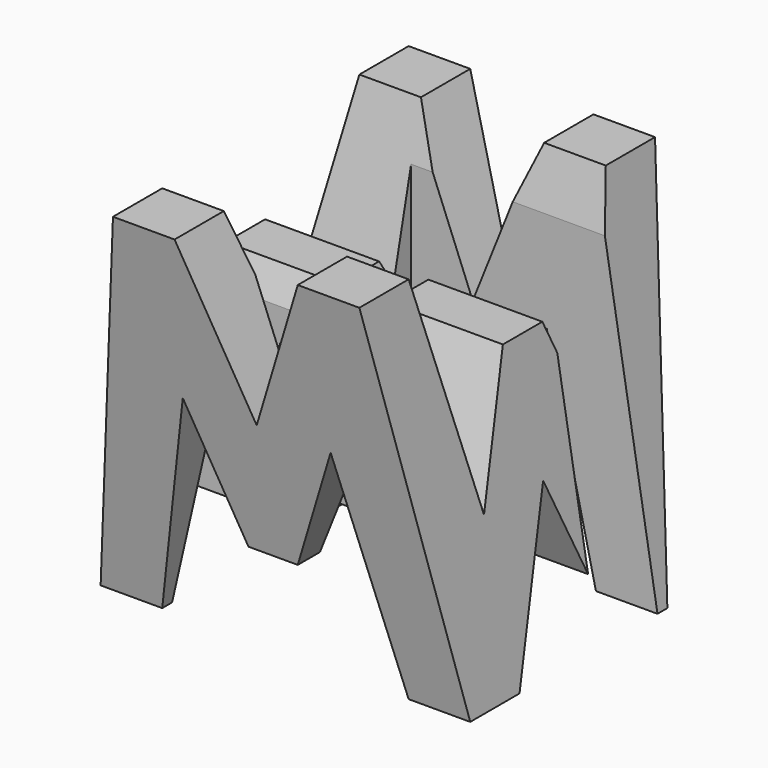
from build123d import *

# Parameters (mm, degrees)
F0_W      = 38.1
F0_H      = 38.1
F1_DEPTH  = 38.1
F6_DEPTH  = 38.1
F8_DEPTH  = 38.1
F9_W      = 25.4
F9_H      = 7.62
F10_DEPTH = 38.1


with BuildPart() as f1:
    # F0 (on Front) → F1 (new body)
    with BuildSketch(Plane.XZ):
        with Locations((19.05, 19.05)):
            Rectangle(F0_W, F0_H)
    extrude(amount=F1_DEPTH)

    # F5 (on offset) → F6 (cut)
    with BuildSketch(Plane.YZ.offset(38.1)):
        Polygon((-31.75, 0), (-38.1, 38.1), (-38.1, 0), align=None)
        Polygon((-25.4, 0), (-12.7, 0), (-19.05, 15.875), align=None)
        Polygon((-6.35, 0), (0, 0), (0, 38.1), align=None)
        Polygon((-11.43, 15.875), (-6.35, 38.1), (-31.75, 38.1), (-26.67, 15.875), (-21.59, 28.575), (-16.51, 28.575), align=None)
    extrude(amount=-F6_DEPTH, mode=Mode.SUBTRACT)

    # F7 (on offset) → F8 (cut)
    with BuildSketch(Plane.XZ.offset(38.1)):
        Polygon((0, 38.1), (0, 0), (6.35, 38.1), align=None)
        Polygon((11.43, 22.225), (6.35, 0), (31.75, 0), (26.67, 22.225), (21.59, 9.525), (16.51, 9.525), align=None)
        Polygon((31.75, 38.1), (38.1, 0), (38.1, 38.1), align=None)
        Polygon((25.4, 38.1), (12.7, 38.1), (19.05, 22.225), align=None)
    extrude(amount=-F8_DEPTH, mode=Mode.SUBTRACT)

    # F9 (on offset) → F10 (cut)
    with BuildSketch(Plane.XY.offset(38.1)):
        with Locations((25.4, -11.43)):
            Rectangle(F9_W, F9_H)
        with Locations((12.7, -26.67)):
            Rectangle(F9_W, F9_H)
    extrude(amount=-F10_DEPTH, mode=Mode.SUBTRACT)


solid = f1.part
